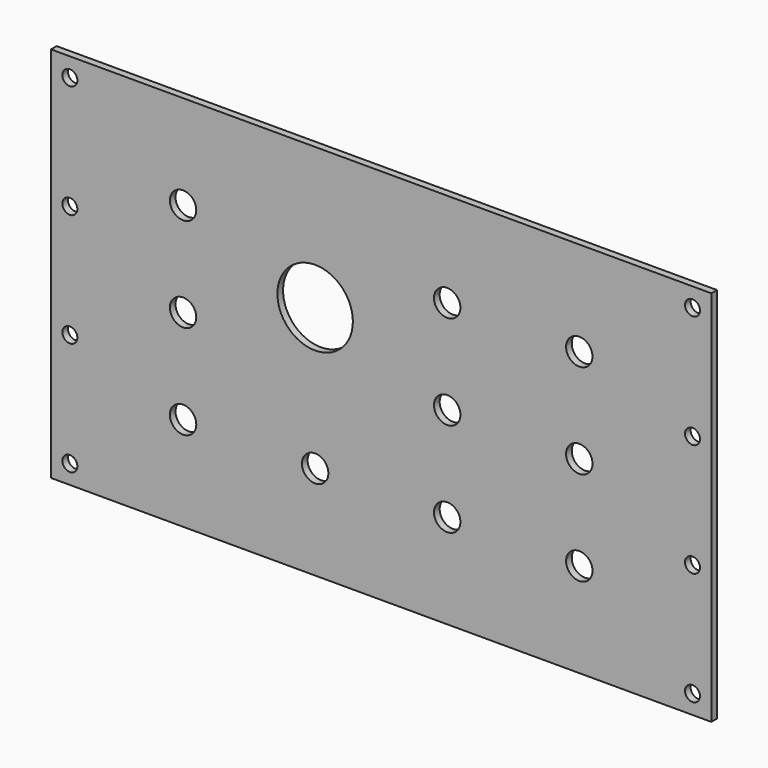
from build123d import *

# Parameters (mm, degrees)
F0_W     = 444.5
F0_H     = 254
F0_R     = 5.0419
F0_R_2   = 8.89
F0_R_3   = 25.4
F1_DEPTH = 4.7625
F2_DEPTH = 4.7625


with BuildPart() as f1:
    # F0 (on Front) → F1 (new body)
    with BuildSketch(Plane.XZ):
        Rectangle(F0_W, F0_H)
        with Locations((-209.55, -114.3)):
            Circle(F0_R, mode=Mode.SUBTRACT)
        with Locations((-209.55, -38.1)):
            Circle(F0_R, mode=Mode.SUBTRACT)
        with Locations((-133.35, -63.5)):
            Circle(F0_R_2, mode=Mode.SUBTRACT)
        with Locations((-44.45, -63.5)):
            Circle(F0_R_2, mode=Mode.SUBTRACT)
        with Locations((209.55, -114.3)):
            Circle(F0_R, mode=Mode.SUBTRACT)
        with Locations((44.45, -63.5)):
            Circle(F0_R_2, mode=Mode.SUBTRACT)
        with Locations((133.35, -63.5)):
            Circle(F0_R_2, mode=Mode.SUBTRACT)
        with Locations((209.55, -38.1)):
            Circle(F0_R, mode=Mode.SUBTRACT)
        with Locations((-133.35, 0)):
            Circle(F0_R_2, mode=Mode.SUBTRACT)
        with Locations((-209.55, 38.1)):
            Circle(F0_R, mode=Mode.SUBTRACT)
        with Locations((-44.45, 31.75)):
            Circle(F0_R_3, mode=Mode.SUBTRACT)
        with Locations((-133.35, 63.5)):
            Circle(F0_R_2, mode=Mode.SUBTRACT)
        with Locations((-209.55, 114.3)):
            Circle(F0_R, mode=Mode.SUBTRACT)
        with Locations((44.45, 0)):
            Circle(F0_R_2, mode=Mode.SUBTRACT)
        with Locations((133.35, 0)):
            Circle(F0_R_2, mode=Mode.SUBTRACT)
        with Locations((209.55, 38.1)):
            Circle(F0_R, mode=Mode.SUBTRACT)
        with Locations((44.45, 63.5)):
            Circle(F0_R_2, mode=Mode.SUBTRACT)
        with Locations((133.35, 63.5)):
            Circle(F0_R_2, mode=Mode.SUBTRACT)
        with Locations((209.55, 114.3)):
            Circle(F0_R, mode=Mode.SUBTRACT)
    extrude(amount=F1_DEPTH)


with BuildPart() as f2:
    # F0 (on Front) → F2 (new body)
    with BuildSketch(Plane.XZ):
        Rectangle(F0_W, F0_H)
        with Locations((-209.55, -114.3)):
            Circle(F0_R, mode=Mode.SUBTRACT)
        with Locations((-209.55, -38.1)):
            Circle(F0_R, mode=Mode.SUBTRACT)
        with Locations((-133.35, -63.5)):
            Circle(F0_R_2, mode=Mode.SUBTRACT)
        with Locations((-44.45, -63.5)):
            Circle(F0_R_2, mode=Mode.SUBTRACT)
        with Locations((209.55, -114.3)):
            Circle(F0_R, mode=Mode.SUBTRACT)
        with Locations((44.45, -63.5)):
            Circle(F0_R_2, mode=Mode.SUBTRACT)
        with Locations((133.35, -63.5)):
            Circle(F0_R_2, mode=Mode.SUBTRACT)
        with Locations((209.55, -38.1)):
            Circle(F0_R, mode=Mode.SUBTRACT)
        with Locations((-133.35, 0)):
            Circle(F0_R_2, mode=Mode.SUBTRACT)
        with Locations((-209.55, 38.1)):
            Circle(F0_R, mode=Mode.SUBTRACT)
        with Locations((-44.45, 31.75)):
            Circle(F0_R_3, mode=Mode.SUBTRACT)
        with Locations((-133.35, 63.5)):
            Circle(F0_R_2, mode=Mode.SUBTRACT)
        with Locations((-209.55, 114.3)):
            Circle(F0_R, mode=Mode.SUBTRACT)
        with Locations((44.45, 0)):
            Circle(F0_R_2, mode=Mode.SUBTRACT)
        with Locations((133.35, 0)):
            Circle(F0_R_2, mode=Mode.SUBTRACT)
        with Locations((209.55, 38.1)):
            Circle(F0_R, mode=Mode.SUBTRACT)
        with Locations((44.45, 63.5)):
            Circle(F0_R_2, mode=Mode.SUBTRACT)
        with Locations((133.35, 63.5)):
            Circle(F0_R_2, mode=Mode.SUBTRACT)
        with Locations((209.55, 114.3)):
            Circle(F0_R, mode=Mode.SUBTRACT)
    extrude(amount=F2_DEPTH)


solid = Compound([f1.part, f2.part])
